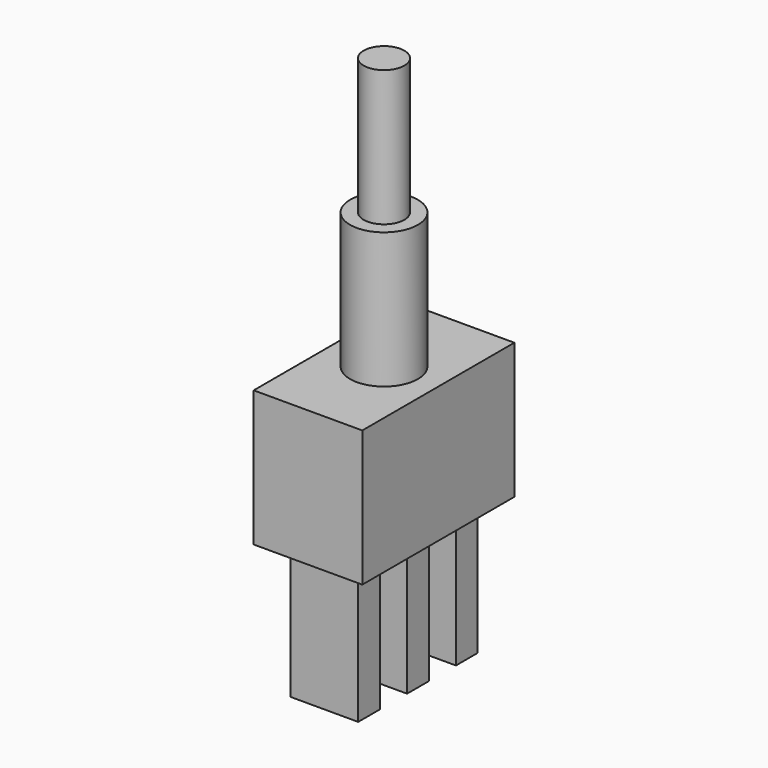
from build123d import *

# Parameters (mm, degrees)
SKETCH022_R             = 2.5
PAD022_DEPTH            = 10
SKETCH023_R             = 1.5
PAD023_DEPTH            = 10
SKETCH024_W             = 8
SKETCH024_H             = 14
PAD024_DEPTH            = 10
SKETCH025_W             = 5
SKETCH025_H             = 2
PAD025_DEPTH            = 10
BODY009_PLACEMENT_ANGLE = 90


with BuildPart() as part:
    # Sketch022 → Pad022 (new body)
    with BuildSketch(Plane.XZ):
        Circle(SKETCH022_R)
    extrude(amount=PAD022_DEPTH)

    # Sketch023 (on Face3 of Pad022) → Pad023 (join)
    with BuildSketch(Plane.XZ.offset(10)):
        Circle(SKETCH023_R)
    extrude(amount=PAD023_DEPTH)

    # Sketch024 (on Face2 of Pad023) → Pad024 (join)
    with BuildSketch(Plane(origin=(0, 0, 0), x_dir=(1, 0, 0), z_dir=(0, 1, 0))):
        Rectangle(SKETCH024_W, SKETCH024_H)
    extrude(amount=PAD024_DEPTH)

    # Sketch025 (on Face5 of Pad024) → Pad025 (join)
    with BuildSketch(Plane(origin=(0, 10, 0), x_dir=(1, 0, 0), z_dir=(0, 1, 0))):
        with Locations((0, 4.5)):
            Rectangle(SKETCH025_W, SKETCH025_H)
        Rectangle(SKETCH025_W, SKETCH025_H)
        with Locations((0, -4.5)):
            Rectangle(SKETCH025_W, SKETCH025_H)
    extrude(amount=PAD025_DEPTH)


with BuildPart() as part_1:
    # Body009 placement: moved
    add(part.part.moved(Location((-26, 13.5, 119))).rotate(Axis((-26, 13.5, 119), (-1, 0, 0)), BODY009_PLACEMENT_ANGLE))


solid = part_1.part
